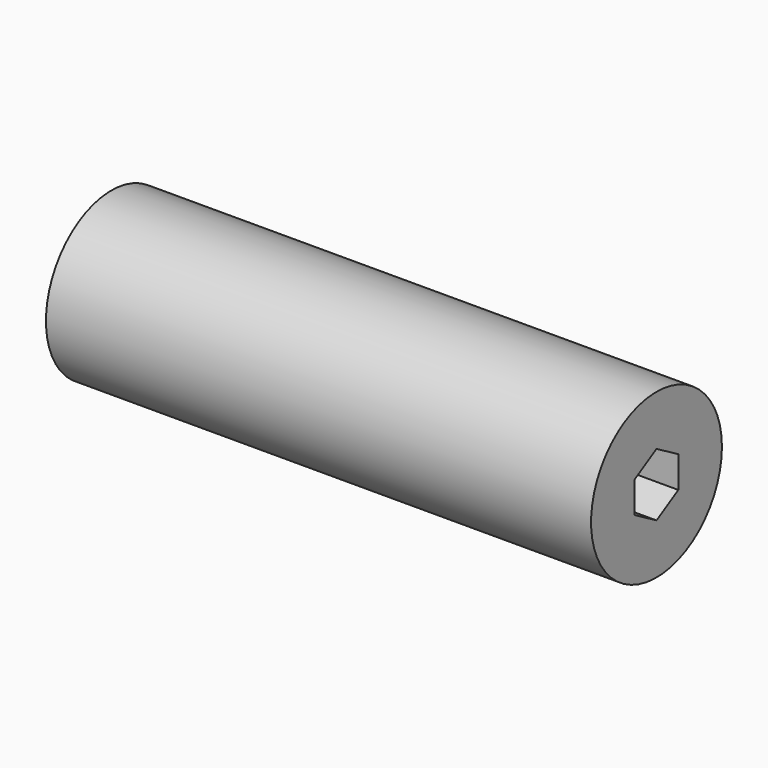
from build123d import *

# Parameters (mm, degrees)
F0_R     = 19.05
F1_DEPTH = 127


with BuildPart() as f1:
    # F0 (on Right) → F1 (new body)
    with BuildSketch(Plane.YZ):
        Circle(F0_R)
        Polygon((-6.35, 3.666174), (0, 7.332348), (6.35, 3.666174), (6.35, -3.666174), (0, -7.332348), (-6.35, -3.666174), align=None, mode=Mode.SUBTRACT)
    extrude(amount=F1_DEPTH)


solid = f1.part
